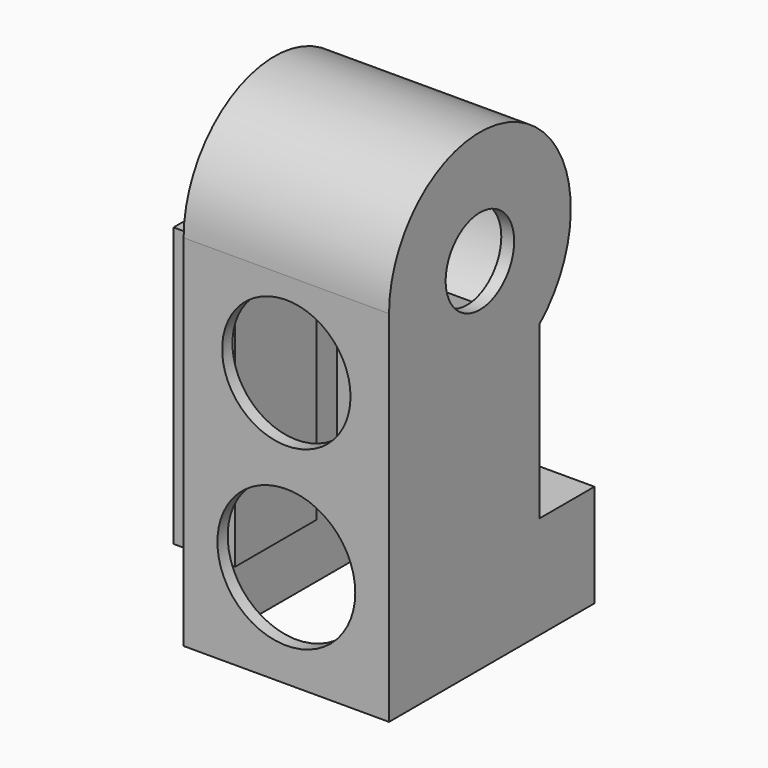
from build123d import *

# Parameters (mm, degrees)
F1_DEPTH  = 12
F2_T      = -1.5
F3_R      = 5
F4_DEPTH  = 5
F5_R      = 7.5
F5_R_2    = 8.0533004945
F6_DEPTH  = 5
F10_START = -8.7
F9_W      = 11.8421060033
F9_H      = 32.5657902285
F10_DEPTH = 7.2


with BuildPart() as f1:
    # F0 (on Right) → F1 (new body, symmetric)
    with BuildSketch(Plane.YZ):
        with BuildLine():
            Line((0, 42), (0, 0))
            Line((0, 0), (30, 0))
            Line((30, 0), (30, 12))
            Line((30, 12), (22, 12))
            Line((22, 12), (22, 32))
            ThreePointArc((22, 32), (18.7650208971, 54.0830459736), (0, 42))
        make_face()
    extrude(amount=F1_DEPTH, both=True)

    # F2
    f2_openings = [f1.faces().sort_by_distance(p)[0] for p in [
        (0, 15, 0),
    ]]
    offset(amount=F2_T, openings=f2_openings, kind=Kind.INTERSECTION)

    # F3 (on face) → F4 (cut)
    with BuildSketch(Plane.YZ.offset(12)):
        with Locations((13.2727272727, 42)):
            Circle(F3_R)
    extrude(amount=-F4_DEPTH, mode=Mode.SUBTRACT)

    # F5 (on face) → F6 (cut)
    with BuildSketch(Plane.XZ):
        with Locations((0, 32)):
            Circle(F5_R)
        with Locations((0, 12)):
            Circle(F5_R_2)
    extrude(amount=-F6_DEPTH, mode=Mode.SUBTRACT)


with BuildPart() as f7_1:
    # F7: instance of F1
    add(f1.part.mirror(Plane(origin=(12, 12.8367440459, 24.8577602778), x_dir=(0, 1, 0), z_dir=(1, 0, 0))))


with BuildPart() as f1_1:
    add(f1.part)

    # F9 (on Right) → F10 (join)
    with BuildSketch(Plane.YZ.offset(F10_START)):
        with Locations((9.3256586697, 24.1282903589)):
            Rectangle(F9_W, F9_H)
    extrude(amount=-F10_DEPTH)


solid = f1_1.part
